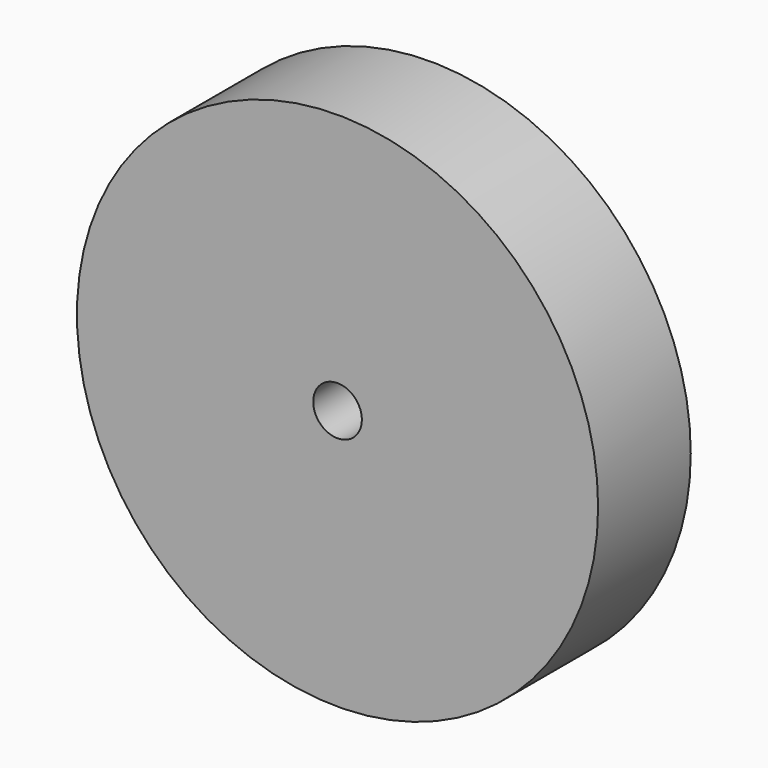
from build123d import *

# Parameters (mm, degrees)
F0_R           = 22.5
F1_DEPTH       = 10
F2_R           = 10
F3_DEPTH       = 10
F5_D           = 4.2
F5_CSINK_D     = 11.2
F5_CSINK_ANGLE = 90


with BuildPart() as f1:
    # F0 (on Front) → F1 (new body)
    with BuildSketch(Plane.XZ):
        Circle(F0_R)
    extrude(amount=F1_DEPTH)

    # F2 (on face) → F3 (join)
    with BuildSketch(Plane(origin=(0, 0, 0), x_dir=(-1, 0, 0), z_dir=(0, 1, 0))):
        Circle(F2_R)
    extrude(amount=F3_DEPTH)

    # F5 (through all)
    with Locations(Plane(origin=(0, 10, 0), x_dir=(-1, 0, 0), z_dir=(0, 1, 0))):
        with Locations((0, 0)):
            CounterSinkHole(F5_D / 2, F5_CSINK_D / 2, counter_sink_angle=F5_CSINK_ANGLE)


solid = f1.part
